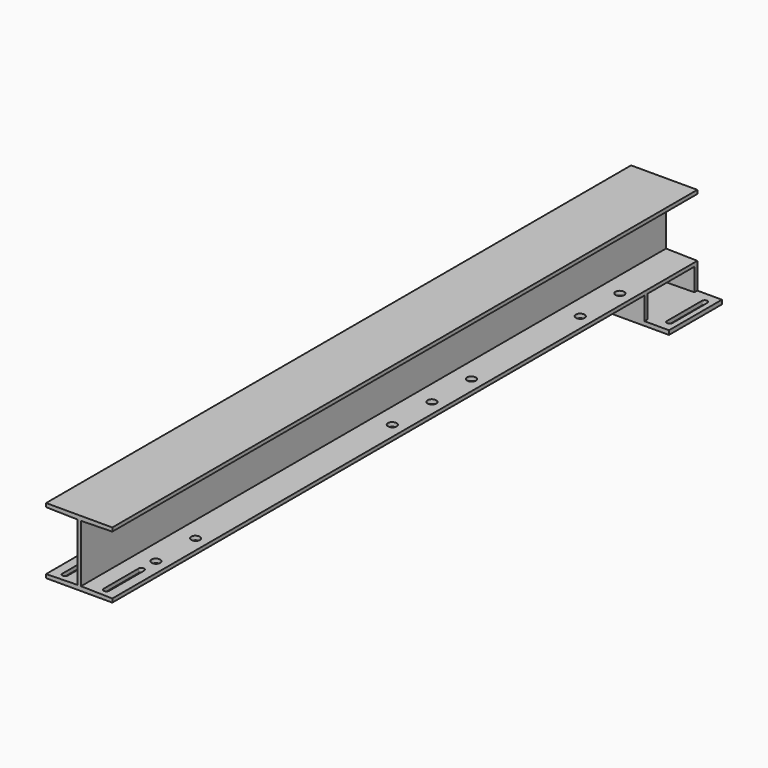
from build123d import *

# Parameters (mm, degrees)
F1_DEPTH = 1126
F2_R     = 6.75
F3_DEPTH = 6.190699014
F5_DEPTH = 34.7
F6_W     = 177.8
F6_H     = 101.9
F7_DEPTH = 6.4
F9_DEPTH = 6.4


with BuildPart() as f1:
    # F0 (on Front) → F1 (new body)
    with BuildSketch(Plane.XZ):
        Polygon((51, 50.95), (-51, 50.95), (-51, 45.3), (-2.825, 44.3), (-2.825, -44.3), (-51, -45.3), (-51, -50.95), (51, -50.95), (51, -45.3), (2.825, -44.3), (2.825, 44.3), (51, 45.3), align=None)
    extrude(amount=F1_DEPTH)

    # F2 (on face) → F3 (cut, through all)
    with BuildSketch(Plane(origin=(0, 0, -50.95), x_dir=(1, 0, 0), z_dir=(0, 0, -1))):
        with Locations((-31.75, 563)):
            Circle(F2_R)
        with Locations((31.75, 563)):
            Circle(F2_R)
        with Locations((-31.75, 486.8)):
            Circle(F2_R)
        with Locations((31.75, 486.8)):
            Circle(F2_R)
        with Locations((-31.75, 1018)):
            Circle(F2_R)
        with Locations((31.75, 1018)):
            Circle(F2_R)
        with Locations((-31.75, 941.8)):
            Circle(F2_R)
        with Locations((31.75, 941.8)):
            Circle(F2_R)
        with Locations((-31.75, 410.6)):
            Circle(F2_R)
        with Locations((31.75, 410.6)):
            Circle(F2_R)
        with BuildLine():
            Line((-27.5, 1046), (-27.5, 1113.3))
            ThreePointArc((-27.5, 1113.3), (-31.75, 1117.55), (-36, 1113.3))
            Line((-36, 1113.3), (-36, 1046))
            ThreePointArc((-36, 1046), (-31.75, 1041.75), (-27.5, 1046))
        make_face()
        with BuildLine():
            ThreePointArc((36, 1113.3), (31.75, 1117.55), (27.5, 1113.3))
            Line((27.5, 1113.3), (27.5, 1046))
            ThreePointArc((27.5, 1046), (31.75, 1041.75), (36, 1046))
            Line((36, 1046), (36, 1113.3))
        make_face()
        with Locations((-31.75, 201.2)):
            Circle(F2_R)
        with Locations((31.75, 201.2)):
            Circle(F2_R)
        with Locations((-31.75, 125)):
            Circle(F2_R)
        with Locations((31.75, 125)):
            Circle(F2_R)
    extrude(amount=-F3_DEPTH, mode=Mode.SUBTRACT)

    # F4 (on face) → F5 (join)
    with BuildSketch(Plane(origin=(0, 0, -50.95), x_dir=(1, 0, 0), z_dir=(0, 0, -1))):
        Polygon((51, 101.9), (-51, 101.9), (-51, 96.25), (-2.825, 95.25), (-2.825, 6.65), (-51, 5.65), (-51, 0), (51, 0), (51, 5.65), (2.825, 6.65), (2.825, 95.25), (51, 96.25), align=None)
    extrude(amount=F5_DEPTH)

    # F6 (on face) → F7 (join)
    with BuildSketch(Plane(origin=(0, 0, -85.65), x_dir=(1, 0, 0), z_dir=(0, 0, -1))):
        with Locations((0, 50.95)):
            Rectangle(F6_W, F6_H)
    extrude(amount=F7_DEPTH)

    # F8 (on face) → F9 (cut, through all)
    with BuildSketch(Plane(origin=(0, 0, -92.05), x_dir=(1, 0, 0), z_dir=(0, 0, -1))):
        with BuildLine():
            Line((-71.95, 17.3), (-71.95, 84.6))
            ThreePointArc((-71.95, 84.6), (-76.2, 88.85), (-80.45, 84.6))
            Line((-80.45, 84.6), (-80.45, 17.3))
            ThreePointArc((-80.45, 17.3), (-76.2, 13.05), (-71.95, 17.3))
        make_face()
        with BuildLine():
            ThreePointArc((80.45, 84.6), (76.2, 88.85), (71.95, 84.6))
            Line((71.95, 84.6), (71.95, 17.3))
            ThreePointArc((71.95, 17.3), (76.2, 13.05), (80.45, 17.3))
            Line((80.45, 17.3), (80.45, 84.6))
        make_face()
    extrude(amount=-F9_DEPTH, mode=Mode.SUBTRACT)


solid = f1.part
